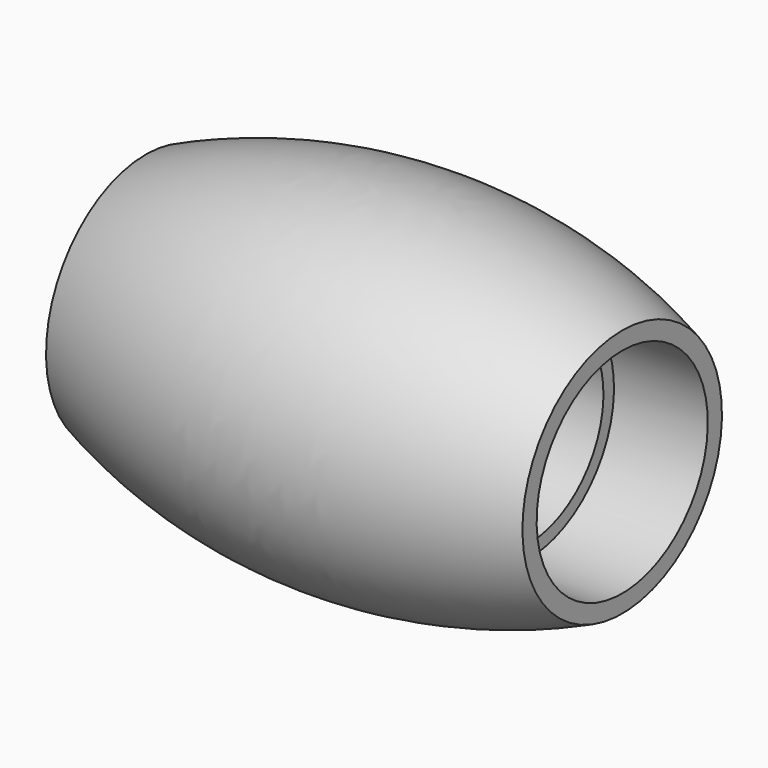
from build123d import *


with BuildPart() as f1:
    # F0 (on Front) → F1 (revolve)
    with BuildSketch(Plane.XZ):
        with BuildLine():
            Line((-10.16, 5.318972), (-10.16, 4.5625))
            Line((-10.16, 4.5625), (-6.16, 4.5625))
            Line((-6.16, 4.5625), (-6.16, 4))
            Line((-6.16, 4), (6.16, 4))
            Line((6.16, 4), (6.16, 4.5625))
            Line((6.16, 4.5625), (10.16, 4.5625))
            Line((10.16, 4.5625), (10.16, 5.318972))
            ThreePointArc((10.16, 5.318972), (0, 7.439488), (-10.16, 5.318972))
        make_face()
    revolve(axis=Axis((0, 0, 0), (1, 0, 0)))


solid = f1.part
